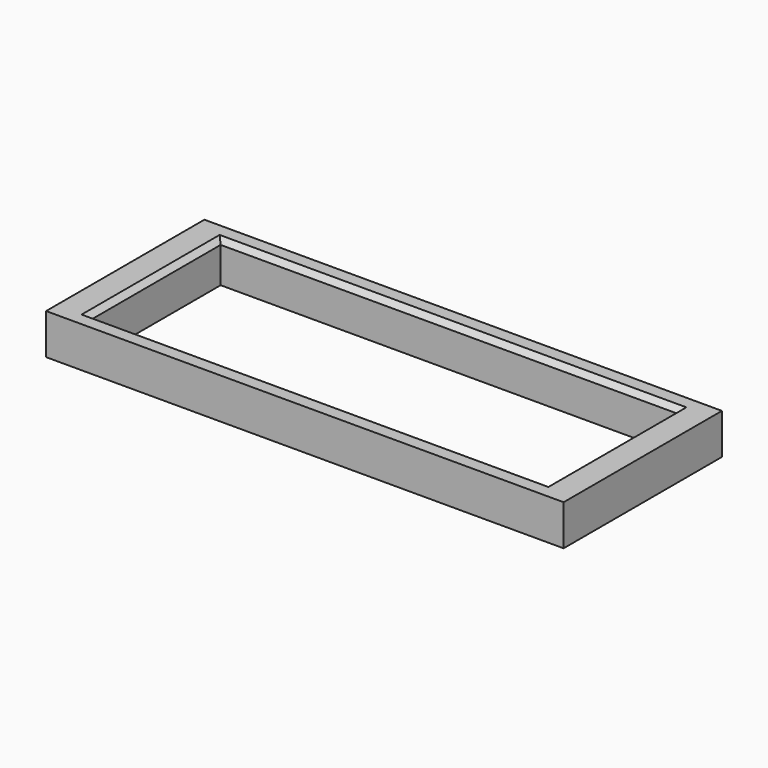
from build123d import *

# Parameters (mm, degrees)
F0_W     = 102
F0_H     = 39
F0_W_2   = 90
F0_H_2   = 32
F1_DEPTH = 8
F2_SIZE  = 1


with BuildPart() as f1:
    # F0 (on Top) → F1 (new body)
    with BuildSketch(Plane.XY):
        Rectangle(F0_W, F0_H)
        Rectangle(F0_W_2, F0_H_2, mode=Mode.SUBTRACT)
    extrude(amount=F1_DEPTH)

    # F2
    f2_edges = [f1.edges().sort_by_distance(p)[0] for p in [
        (0, 16, 8),
        (45, 0, 8),
        (0, -16, 8),
        (-45, 0, 8),
    ]]
    chamfer(f2_edges, length=F2_SIZE)


solid = f1.part
